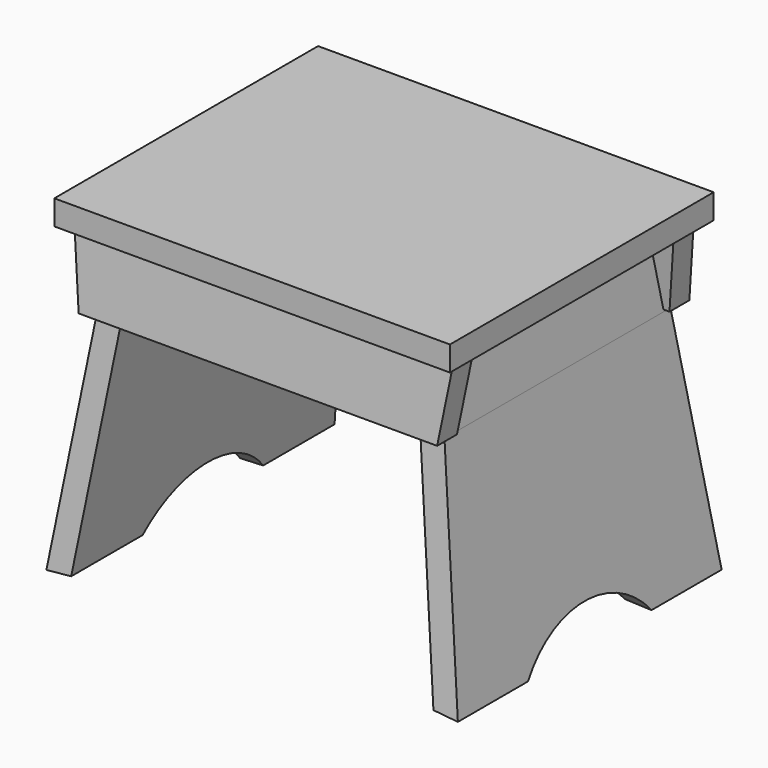
from build123d import *

# Parameters (mm, degrees)
F1_DEPTH      = 127
F2_DEPTH      = 127
F2_DEPTH_BACK = 127
F4_DEPTH      = 158.5079027961
F4_DEPTH_BACK = 158.5079027961
F6_DEPTH      = 152.146
F6_DEPTH_BACK = 152.146
F7_DEPTH      = 127.001
F7_DEPTH_BACK = 127.001


with BuildPart() as f1:
    # F0 (on Front) → F1 (new body, symmetric)
    with BuildSketch(Plane.XZ):
        Polygon((146.05, -9.525), (152.4, -9.525), (152.4, 9.525), (-152.4, 9.525), (-152.4, -9.525), (-146.05, -9.525), (-125.4868336827, -9.525), (-106.7610483312, -9.525), (106.7610483312, -9.525), (125.4868336827, -9.525), align=None)
    extrude(amount=F1_DEPTH, both=True)


with BuildPart() as f2:
    # F0 (on Front) → F2 (new body, two sides)
    with BuildSketch(Plane.XZ) as f2_sk:
        Polygon((-139.536550618, -242.7348166075), (-114.9217637123, -67.5915071359), (-133.6475490639, -67.5915071359), (-158.5069027961, -244.475), align=None)
        Polygon((-114.9217637123, -67.5915071359), (-106.7610483312, -9.525), (-125.4868336827, -9.525), (-133.6475490639, -67.5915071359), align=None)
    extrude(amount=-F2_DEPTH)
    extrude(f2_sk.sketch, amount=F2_DEPTH_BACK)


with BuildPart() as f2b:
    # F0 (on Front) → F2, piece 2 (new body, two sides)
    with BuildSketch(Plane.XZ) as f2_2_sk:
        Polygon((133.6475490639, -67.5915071359), (125.4868336827, -9.525), (106.7610483312, -9.525), (114.9217637123, -67.5915071359), align=None)
        Polygon((158.5069027961, -244.475), (133.6475490639, -67.5915071359), (114.9217637123, -67.5915071359), (139.536550618, -242.7348166075), align=None)
    extrude(amount=-F2_DEPTH)
    extrude(f2_2_sk.sketch, amount=F2_DEPTH_BACK)


with BuildPart() as f4_tool:
    # F3 (on Right) → F4 (new body, two sides)
    with BuildSketch(Plane.YZ) as f4_sk:
        Polygon((-126.9999999997, -244.475), (-102.8577622345, -9.525), (-126.9999999998, -9.525), align=None)
        Polygon((127.0000000002, -9.525), (102.8577622345, -9.525), (126.9999999997, -244.475), align=None)
        with BuildLine():
            ThreePointArc((59.4740621746, -244.475), (33.07728348, -223.1326092532), (0, -215.5049696562))
            ThreePointArc((0, -215.5049696562), (-33.07728348, -223.1326092532), (-59.4740621746, -244.475))
            Line((-59.4740621746, -244.475), (59.4740621746, -244.475))
        make_face()
    extrude(amount=F4_DEPTH)
    extrude(f4_sk.sketch, amount=-F4_DEPTH_BACK)


with BuildPart() as f2_1:
    add(f2.part)

    # F4: cut by f4_tool
    add(f4_tool.part, mode=Mode.SUBTRACT)


with BuildPart() as f2b_1:
    add(f2b.part)

    # F4: cut by f4_tool
    add(f4_tool.part, mode=Mode.SUBTRACT)


with BuildPart() as f6:
    # F5 (on Right) → F6 (new body, two sides)
    with BuildSketch(Plane.YZ) as f6_sk:
        Polygon((-108.6750508712, -66.1383089442), (-102.8577622345, -9.525), (-115.6246329554, -9.525), (-121.4419215921, -66.1383089442), align=None)
        Polygon((-96.474326874, -9.525), (-102.8577622345, -9.525), (-108.6750508712, -66.1383089442), (-102.2916155108, -66.1383089442), align=None)
    extrude(amount=F6_DEPTH)
    extrude(f6_sk.sketch, amount=-F6_DEPTH_BACK)


with BuildPart() as f6b:
    # F5 (on Right) → F6, piece 2 (new body, two sides)
    with BuildSketch(Plane.YZ) as f6_2_sk:
        Polygon((102.8577622344, -9.525), (96.474326874, -9.525), (102.2916155108, -66.1383089442), (108.6750508712, -66.1383089442), align=None)
        Polygon((115.6246329554, -9.525), (102.8577622344, -9.525), (108.6750508712, -66.1383089442), (121.4419215921, -66.1383089442), align=None)
    extrude(amount=F6_DEPTH)
    extrude(f6_2_sk.sketch, amount=-F6_DEPTH_BACK)


with BuildPart() as f7_tool:
    # F0 (on Front) → F7 (new body, two sides)
    with BuildSketch(Plane.XZ) as f7_sk:
        Polygon((-146.05, -9.525), (-152.4, -9.525), (-152.4, -67.5915071359), (-137.8892846189, -67.5915071359), align=None)
        Polygon((152.4, -67.5915071359), (152.4, -9.525), (146.05, -9.525), (137.8892846189, -67.5915071359), align=None)
    extrude(amount=-F7_DEPTH)
    extrude(f7_sk.sketch, amount=F7_DEPTH_BACK)


with BuildPart() as f6_1:
    add(f6.part)

    # F7: cut by f7_tool
    add(f7_tool.part, mode=Mode.SUBTRACT)

    # F8: cut F2b
    add(f2b_1.part, mode=Mode.SUBTRACT)

    # F10: cut F2
    add(f2_1.part, mode=Mode.SUBTRACT)


with BuildPart() as f6b_1:
    add(f6b.part)

    # F7: cut by f7_tool
    add(f7_tool.part, mode=Mode.SUBTRACT)

    # F9: cut F2b
    add(f2b_1.part, mode=Mode.SUBTRACT)

    # F11: cut F2
    add(f2_1.part, mode=Mode.SUBTRACT)


solid = Compound([f1.part, f2_1.part, f2b_1.part, f6_1.part, f6b_1.part])
